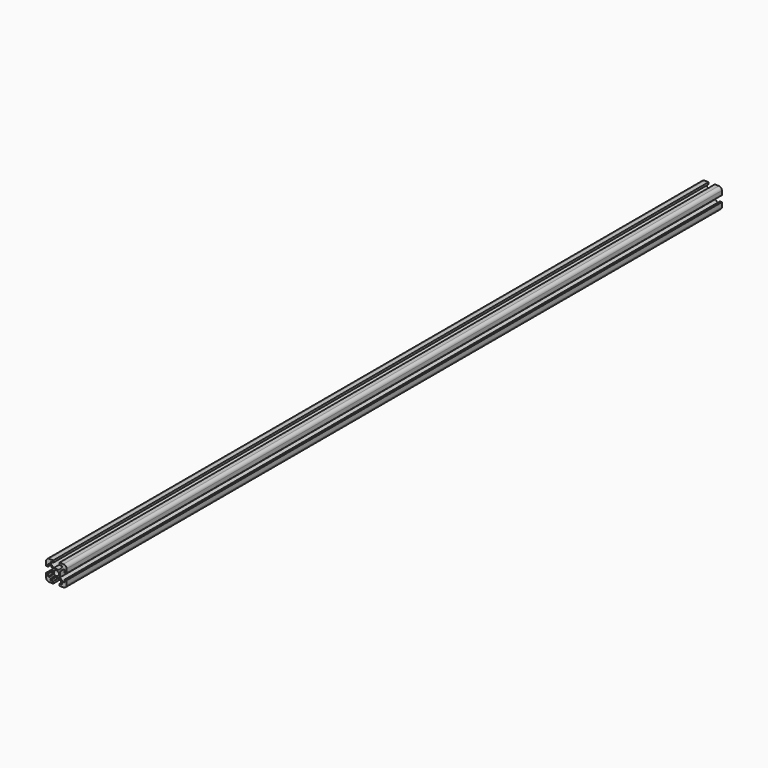
from build123d import *

# Parameters (mm, degrees)
F0_R     = 2.5
F1_DEPTH = 800


with BuildPart() as f1:
    # F0 (on Front) → F1 (new body)
    with BuildSketch(Plane.XZ):
        with BuildLine():
            Line((3.087302, -9.884439), (7.087302, -9.884439))
            ThreePointArc((7.087302, -9.884439), (9.208622, -9.00576), (10.087302, -6.884439))
            Line((10.087302, -6.884439), (10.087302, -2.884439))
            Line((10.087302, -2.884439), (8.087302, -2.884439))
            Line((8.087302, -2.884439), (8.087302, -5.384439))
            Line((8.087302, -5.384439), (8.087302, -6.823779))
            Line((8.087302, -6.823779), (6.647962, -5.384439))
            Line((6.647962, -5.384439), (3.687302, -2.423779))
            Line((3.687302, -2.423779), (3.687302, 2.654901))
            Line((3.687302, 2.654901), (6.647962, 5.615561))
            Line((6.647962, 5.615561), (8.087302, 7.054901))
            Line((8.087302, 7.054901), (8.087302, 5.615561))
            Line((8.087302, 5.615561), (8.087302, 3.115561))
            Line((8.087302, 3.115561), (10.087302, 3.115561))
            Line((10.087302, 3.115561), (10.087302, 7.115561))
            ThreePointArc((10.087302, 7.115561), (9.208622, 9.236881), (7.087302, 10.115561))
            Line((7.087302, 10.115561), (3.087302, 10.115561))
            Line((3.087302, 10.115561), (3.087302, 8.115561))
            Line((3.087302, 8.115561), (5.587302, 8.115561))
            Line((5.587302, 8.115561), (7.026641, 8.115561))
            Line((7.026641, 8.115561), (5.587302, 6.676221))
            Line((5.587302, 6.676221), (2.626641, 3.715561))
            Line((2.626641, 3.715561), (-2.452038, 3.715561))
            Line((-2.452038, 3.715561), (-5.412698, 6.676221))
            Line((-5.412698, 6.676221), (-6.852038, 8.115561))
            Line((-6.852038, 8.115561), (-5.412698, 8.115561))
            Line((-5.412698, 8.115561), (-2.912698, 8.115561))
            Line((-2.912698, 8.115561), (-2.912698, 10.115561))
            Line((-2.912698, 10.115561), (-6.912698, 10.115561))
            ThreePointArc((-6.912698, 10.115561), (-9.034019, 9.236881), (-9.912698, 7.115561))
            Line((-9.912698, 7.115561), (-9.912698, 3.115561))
            Line((-9.912698, 3.115561), (-7.912698, 3.115561))
            Line((-7.912698, 3.115561), (-7.912698, 5.615561))
            Line((-7.912698, 5.615561), (-7.912698, 7.054901))
            Line((-7.912698, 7.054901), (-6.473359, 5.615561))
            Line((-6.473359, 5.615561), (-3.512698, 2.654901))
            Line((-3.512698, 2.654901), (-3.512698, -2.423779))
            Line((-3.512698, -2.423779), (-6.473359, -5.384439))
            Line((-6.473359, -5.384439), (-7.912698, -6.823779))
            Line((-7.912698, -6.823779), (-7.912698, -5.384439))
            Line((-7.912698, -5.384439), (-7.912698, -2.884439))
            Line((-7.912698, -2.884439), (-9.912698, -2.884439))
            Line((-9.912698, -2.884439), (-9.912698, -6.884439))
            ThreePointArc((-9.912698, -6.884439), (-9.034019, -9.00576), (-6.912698, -9.884439))
            Line((-6.912698, -9.884439), (-2.912698, -9.884439))
            Line((-2.912698, -9.884439), (-2.912698, -7.884439))
            Line((-2.912698, -7.884439), (-5.412698, -7.884439))
            Line((-5.412698, -7.884439), (-6.852038, -7.884439))
            Line((-6.852038, -7.884439), (-5.412698, -6.445099))
            Line((-5.412698, -6.445099), (-2.452038, -3.484439))
            Line((-2.452038, -3.484439), (2.626641, -3.484439))
            Line((2.626641, -3.484439), (5.587302, -6.445099))
            Line((5.587302, -6.445099), (7.026641, -7.884439))
            Line((7.026641, -7.884439), (5.587302, -7.884439))
            Line((5.587302, -7.884439), (3.087302, -7.884439))
            Line((3.087302, -7.884439), (3.087302, -9.884439))
        make_face()
        with Locations((0.087302, 0.115561)):
            Circle(F0_R, mode=Mode.SUBTRACT)
        Polygon((5.587302, -6.445099), (5.587302, -7.884439), (7.026641, -7.884439), align=None)
        Polygon((8.087302, -6.823779), (8.087302, -5.384439), (6.647962, -5.384439), align=None)
        Polygon((-5.412698, -7.884439), (-5.412698, -6.445099), (-6.852038, -7.884439), align=None)
        Polygon((8.087302, 7.054901), (6.647962, 5.615561), (8.087302, 5.615561), align=None)
        Polygon((-6.473359, -5.384439), (-7.912698, -5.384439), (-7.912698, -6.823779), align=None)
        Polygon((7.026641, 8.115561), (5.587302, 8.115561), (5.587302, 6.676221), align=None)
        Polygon((-7.912698, 5.615561), (-6.473359, 5.615561), (-7.912698, 7.054901), align=None)
        Polygon((-6.852038, 8.115561), (-5.412698, 6.676221), (-5.412698, 8.115561), align=None)
    extrude(amount=-F1_DEPTH)


solid = f1.part
